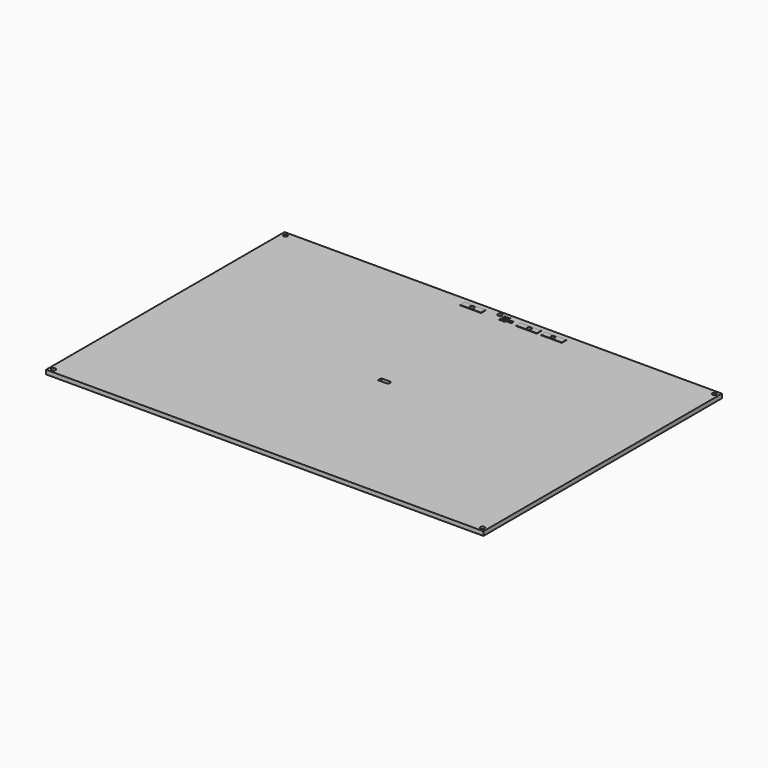
from build123d import *

# Parameters (mm, degrees)
SKETCH001_W       = 214
SKETCH001_H       = 314
PAD_DEPTH         = 3
SKETCH_W          = 4
SKETCH_H          = 15
SKETCH_W_2        = 2
SKETCH_H_2        = 4
PAD001_DEPTH      = 0.3
SKETCH002_R       = 1.5
SKETCH002_R_2     = 0.75
POCKET_DEPTH      = 3.001
POCKET_DEPTH_BACK = -0.301


with BuildPart() as part:
    # Sketch001 → Pad (new body)
    with BuildSketch(Plane(origin=(110.543777, 322.172485, 403.912964), x_dir=(0, -1, 0), z_dir=(0, 0, 1))):
        with Locations((-107, 157)):
            Rectangle(SKETCH001_W, SKETCH001_H)
    extrude(amount=PAD_DEPTH)

    # Sketch → Pad001 (new body)
    with BuildSketch(Plane(origin=(110.543777, 322.172485, 406.912964), x_dir=(0, -1, 0), z_dir=(0, 0, 1))):
        with Locations((-208, 140)):
            Rectangle(SKETCH_W, SKETCH_H)
        with Locations((-208, 180)):
            Rectangle(SKETCH_W, SKETCH_H)
        with Locations((-208, 198)):
            Rectangle(SKETCH_W, SKETCH_H)
        with Locations((-210, 162.5)):
            Rectangle(SKETCH_W_2, SKETCH_H_2)
        with Locations((-207, 162.5)):
            Rectangle(SKETCH_W_2, SKETCH_H_2)
        with Locations((-208, 166.51)):
            Rectangle(SKETCH_W_2, SKETCH_H_2)
    extrude(amount=PAD001_DEPTH)

    # Sketch002 → Pocket (cut, two sides)
    with BuildSketch(Plane(origin=(110.543777, 322.172485, 406.912964), x_dir=(0, -1, 0), z_dir=(0, 0, 1))) as pocket_sk:
        with Locations((-208, 139.5)):
            Circle(SKETCH002_R)
        with Locations((-211, 157)):
            Circle(SKETCH002_R)
        with Locations((-210, 161.5)):
            Circle(SKETCH002_R_2)
        with Locations((-210, 163.5)):
            Circle(SKETCH002_R_2)
        with Locations((-207, 161.5)):
            Circle(SKETCH002_R_2)
        with Locations((-207, 163.5)):
            Circle(SKETCH002_R_2)
        with Locations((-208, 167.5)):
            Circle(SKETCH002_R_2)
        with Locations((-208, 165.5)):
            Circle(SKETCH002_R_2)
        with Locations((-208, 180.5)):
            Circle(SKETCH002_R)
        with Locations((-208, 197.5)):
            Circle(SKETCH002_R)
        with Locations((-211, 311)):
            Circle(SKETCH002_R)
        with Locations((-211, 3)):
            Circle(SKETCH002_R)
        with Locations((-3, 3)):
            Circle(SKETCH002_R)
        with Locations((-3, 311)):
            Circle(SKETCH002_R)
        with BuildLine():
            Line((-109.25, 159.250001), (-109.25, 153.25))
            Line((-109.25, 153.25), (-106.25, 153.25))
            Line((-106.25, 159.25), (-106.25, 153.25))
            ThreePointArc((-106.25, 159.25), (-107.75, 160.749999), (-109.25, 159.250001))
        make_face()
    extrude(amount=-POCKET_DEPTH, mode=Mode.SUBTRACT)
    extrude(pocket_sk.sketch, amount=-POCKET_DEPTH_BACK, mode=Mode.SUBTRACT)


solid = part.part
